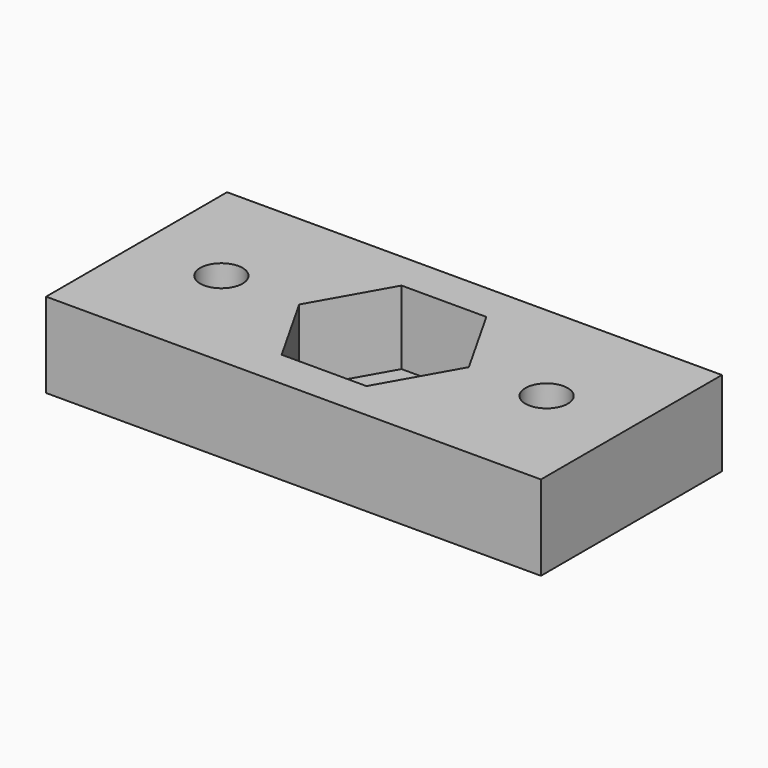
from build123d import *

# Parameters (mm, degrees)
F0_W     = 35
F0_H     = 16
F0_R     = 1.5
F0_R_2   = 3
F1_DEPTH = 6
F3_DEPTH = 5.2
F4_R     = 3
F5_DEPTH = 2.5


with BuildPart() as f1:
    # F0 (on Top) → F1 (new body)
    with BuildSketch(Plane.XY):
        with Locations((-17.5, 8)):
            Rectangle(F0_W, F0_H)
        with Locations((-29, 8)):
            Circle(F0_R, mode=Mode.SUBTRACT)
        with Locations((-17.5, 8)):
            Circle(F0_R_2, mode=Mode.SUBTRACT)
        with Locations((-6, 8)):
            Circle(F0_R, mode=Mode.SUBTRACT)
    extrude(amount=F1_DEPTH)

    # F2 (on face) → F3 (cut)
    with BuildSketch(Plane.XY.offset(6)):
        with BuildLine():
            Line((-20.5, 2.7), (-17.5, 2.7))
            Line((-17.5, 2.7), (-17.5, 5))
            ThreePointArc((-17.5, 5), (-20.5, 8), (-17.5, 11))
            Line((-17.5, 11), (-17.5, 13.3))
            Line((-17.5, 13.3), (-20.5, 13.3))
            Line((-20.5, 13.3), (-23.5, 8))
            Line((-23.5, 8), (-20.5, 2.7))
        make_face()
        with BuildLine():
            ThreePointArc((-17.5, 11), (-15.37868, 10.12132), (-14.5, 8))
            Line((-14.5, 8), (-11.5, 8))
            Line((-11.5, 8), (-14.5, 13.3))
            Line((-14.5, 13.3), (-17.5, 13.3))
            Line((-17.5, 13.3), (-17.5, 11))
        make_face()
        with BuildLine():
            Line((-17.5, 5), (-17.5, 2.7))
            Line((-17.5, 2.7), (-14.5, 2.7))
            Line((-14.5, 2.7), (-11.5, 8))
            Line((-11.5, 8), (-14.5, 8))
            ThreePointArc((-14.5, 8), (-15.37868, 5.87868), (-17.5, 5))
        make_face()
    extrude(amount=-F3_DEPTH, mode=Mode.SUBTRACT)

    # F4 (on Top) → F5 (cut)
    with BuildSketch(Plane.XY):
        with Locations((-29, 8)):
            Circle(F4_R)
        with Locations((-6, 8)):
            Circle(F4_R)
    extrude(amount=F5_DEPTH, mode=Mode.SUBTRACT)


solid = f1.part
